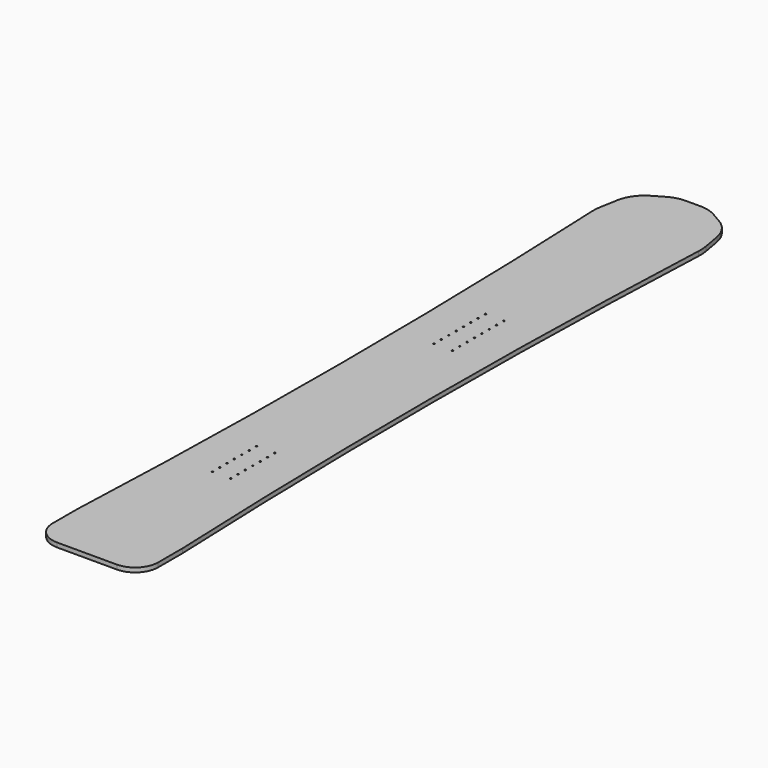
from build123d import *

# Parameters (mm, degrees)
F2_DEPTH = 9.525
F3_R     = 1.5875
F4_DEPTH = 9.525


with BuildPart() as f2:
    # F1 (on Top) → F2 (new body)
    with BuildSketch(Plane.XY):
        with BuildLine():
            ThreePointArc((-116.575887, 718.95264), (-100.009842, 17.52365), (-115, -683.940787))
            Line((-115, -683.940787), (-115, -750))
            ThreePointArc((-115, -750), (-100.355339, -785.355339), (-65, -800))
            Line((-65, -800), (0, -800))
            Line((0, -800), (65, -800))
            ThreePointArc((65, -800), (100.355339, -785.355339), (115, -750))
            Line((115, -750), (115, -683.940787))
            ThreePointArc((115, -683.940787), (100.009842, 17.52365), (116.575887, 718.95264))
            ThreePointArc((116.575887, 718.95264), (116.476035, 729.978393), (115.162917, 740.926129))
            Line((115.162917, 740.926129), (108.504278, 778.689152))
            ThreePointArc((108.504278, 778.689152), (96.908378, 806.68413), (74.567735, 827.155558))
            Line((74.567735, 827.155558), (51.243557, 840.621778))
            ThreePointArc((51.243557, 840.621778), (34.36089, 847.614808), (16.243557, 850))
            Line((16.243557, 850), (0, 850))
            Line((0, 850), (-16.243557, 850))
            ThreePointArc((-16.243557, 850), (-34.36089, 847.614808), (-51.243557, 840.621778))
            Line((-51.243557, 840.621778), (-74.567735, 827.155558))
            ThreePointArc((-74.567735, 827.155558), (-96.908378, 806.68413), (-108.504278, 778.689152))
            Line((-108.504278, 778.689152), (-115.162917, 740.926129))
            ThreePointArc((-115.162917, 740.926129), (-116.476035, 729.978393), (-116.575887, 718.95264))
        make_face()
    extrude(amount=F2_DEPTH)

    # F3 (on face) → F4 (cut, through all)
    with BuildSketch(Plane.XY.offset(9.525)):
        with Locations((-21.5875, 171.5875)):
            Circle(F3_R)
        with Locations((-21.5875, 191.5875)):
            Circle(F3_R)
        with Locations((-21.5875, 211.5875)):
            Circle(F3_R)
        with Locations((-21.5875, 231.5875)):
            Circle(F3_R)
        with Locations((-21.5875, 251.5875)):
            Circle(F3_R)
        with Locations((-21.5875, 271.5875)):
            Circle(F3_R)
        with Locations((-21.5875, 291.5875)):
            Circle(F3_R)
        with Locations((-21.5875, 311.5875)):
            Circle(F3_R)
        with Locations((18.4125, 171.5875)):
            Circle(F3_R)
        with Locations((18.4125, 191.5875)):
            Circle(F3_R)
        with Locations((18.4125, 211.5875)):
            Circle(F3_R)
        with Locations((18.4125, 231.5875)):
            Circle(F3_R)
        with Locations((18.4125, 251.5875)):
            Circle(F3_R)
        with Locations((18.4125, 271.5875)):
            Circle(F3_R)
        with Locations((18.4125, 291.5875)):
            Circle(F3_R)
        with Locations((18.4125, 311.5875)):
            Circle(F3_R)
        with Locations((-21.5875, -311.5875)):
            Circle(F3_R)
        with Locations((18.4125, -431.5875)):
            Circle(F3_R)
        with Locations((18.4125, -371.5875)):
            Circle(F3_R)
        with Locations((-21.5875, -331.5875)):
            Circle(F3_R)
        with Locations((-21.5875, -371.5875)):
            Circle(F3_R)
        with Locations((-21.5875, -431.5875)):
            Circle(F3_R)
        with Locations((18.4125, -331.5875)):
            Circle(F3_R)
        with Locations((-21.5875, -351.5875)):
            Circle(F3_R)
        with Locations((18.4125, -411.5875)):
            Circle(F3_R)
        with Locations((-21.5875, -411.5875)):
            Circle(F3_R)
        with Locations((-21.5875, -391.5875)):
            Circle(F3_R)
        with Locations((18.4125, -391.5875)):
            Circle(F3_R)
        with Locations((18.4125, -351.5875)):
            Circle(F3_R)
        with Locations((18.4125, -311.5875)):
            Circle(F3_R)
    extrude(amount=-F4_DEPTH, mode=Mode.SUBTRACT)


solid = f2.part
